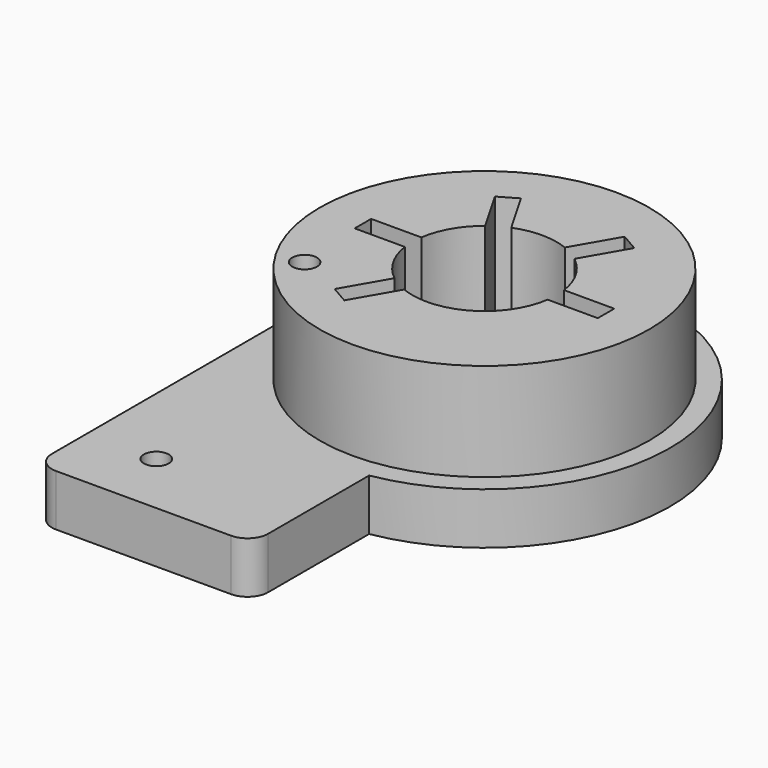
from build123d import *

# Parameters (mm, degrees)
CYLINDER004_R     = 7
CYLINDER004_DEPTH = 20
BOX001_W          = 5
BOX001_H          = 2
BOX001_DEPTH      = 20
ARRAY006_COUNT    = 5
ARRAY006_ANGLE    = 240
CYLINDER014_R     = 1.2
CYLINDER014_DEPTH = 10
CYLINDER013_R     = 1.2
CYLINDER013_DEPTH = 20
CYLINDER006_R     = 16
CYLINDER006_DEPTH = 10
CYLINDER005_R     = 18
CYLINDER005_DEPTH = 5
BOX017_W          = 21
BOX017_H          = 30
BOX017_DEPTH      = 5
FILLET_R          = 2


with BuildPart() as cilindro004:
    # Cylinder004 → Cylinder004 (new body)
    with BuildSketch(Plane.XY):
        Circle(CYLINDER004_R)
    extrude(amount=CYLINDER004_DEPTH)


with BuildPart() as axle_model:
    # Box001 → Box001 (new body)
    with BuildSketch(Plane(origin=(6.8, -1, 0), x_dir=(1, 0, 0), z_dir=(0, 0, 1))):
        with Locations((2.5, 1)):
            Rectangle(BOX001_W, BOX001_H)
    extrude(amount=BOX001_DEPTH)

    # Array006: Axle_Model ×5 about axis
    array006_axis = Axis((0, 0, 0), (0, 0, 1))


with BuildPart() as axle_model_1:
    add(axle_model.part)
    for i in range(1, ARRAY006_COUNT):
        add(axle_model.part.rotate(array006_axis, i * ARRAY006_ANGLE / (ARRAY006_COUNT - 1)))

    # Fusion009: union Cilindro004
    add(cilindro004.part)


with BuildPart() as axle_model_2:
    # Fusion009 placement: moved
    add(axle_model_1.part.moved(Location((0, 0, 13))))


with BuildPart() as cilindro013:
    # Cylinder014 → Cylinder014 (new body)
    with BuildSketch(Plane(origin=(-11.3, -25.7, 14), x_dir=(1, 0, 0), z_dir=(0, 0, 1))):
        Circle(CYLINDER014_R)
    extrude(amount=CYLINDER014_DEPTH)


with BuildPart() as cilindro012:
    # Cylinder013 → Cylinder013 (new body)
    with BuildSketch(Plane(origin=(-11.3, -7.7, 14), x_dir=(1, 0, 0), z_dir=(0, 0, 1))):
        Circle(CYLINDER013_R)
    extrude(amount=CYLINDER013_DEPTH)


with BuildPart() as cilindro006:
    # Cylinder006 → Cylinder006 (new body)
    with BuildSketch(Plane.XY.offset(18)):
        Circle(CYLINDER006_R)
    extrude(amount=CYLINDER006_DEPTH)


with BuildPart() as fusion015:
    # Cylinder005 → Cylinder005 (new body)
    with BuildSketch(Plane.XY.offset(13.5)):
        Circle(CYLINDER005_R)
    extrude(amount=CYLINDER005_DEPTH)

    # Fusion015: union Cilindro006
    add(cilindro006.part)


with BuildPart() as sensorsupport:
    # Box017 → Box017 (new body)
    with BuildSketch(Plane(origin=(-18, -32, 13.5), x_dir=(1, 0, 0), z_dir=(0, 0, 1))):
        with Locations((10.5, 15)):
            Rectangle(BOX017_W, BOX017_H)
    extrude(amount=BOX017_DEPTH)

    # Fusion016: union Fusion015
    add(fusion015.part)


with BuildPart() as sensorsupport_1:
    # Fusion016 placement: moved
    add(sensorsupport.part.moved(Location((0, 0, 5))))

    # Cut015: cut Cilindro012
    add(cilindro012.part, mode=Mode.SUBTRACT)

    # Cut016: cut Cilindro013
    add(cilindro013.part, mode=Mode.SUBTRACT)

    # Cut: cut Axle_Model
    add(axle_model_2.part, mode=Mode.SUBTRACT)

    # Fillet
    fillet_edges = [sensorsupport_1.edges().sort_by_distance(p)[0] for p in [
        (-18, -32, 21),
        (3, -32, 21),
    ]]
    fillet(fillet_edges, radius=FILLET_R)


solid = sensorsupport_1.part
